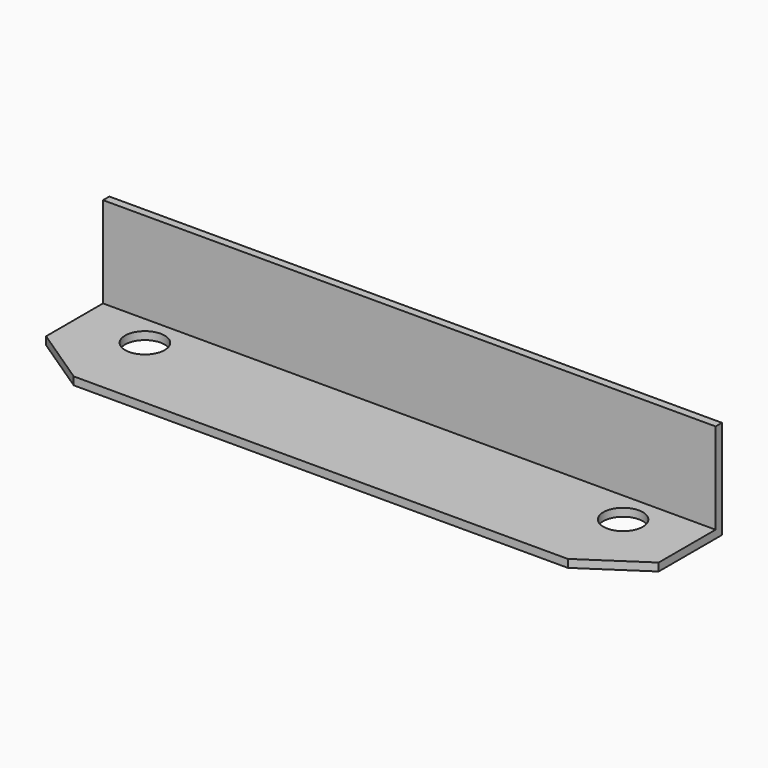
from build123d import *

# Parameters (mm, degrees)
F0_R     = 5
F0_W     = 155
F0_H     = 2
F1_DEPTH = 2
F2_DEPTH = 25


with BuildPart() as f1:
    # F0 (on Top) → F1 (new body)
    with BuildSketch(Plane.XY):
        Polygon((-77.5, -20), (-62.5, -30), (62.5, -30), (77.5, -20), (77.5, -2), (-77.5, -2), align=None)
        with Locations((-60.5, -10)):
            Circle(F0_R, mode=Mode.SUBTRACT)
        with Locations((60.5, -10)):
            Circle(F0_R, mode=Mode.SUBTRACT)
        with Locations((0, -1)):
            Rectangle(F0_W, F0_H)
    extrude(amount=F1_DEPTH)

    # F0 (on Top) → F2 (join)
    with BuildSketch(Plane.XY):
        with Locations((0, -1)):
            Rectangle(F0_W, F0_H)
    extrude(amount=F2_DEPTH)


solid = f1.part
